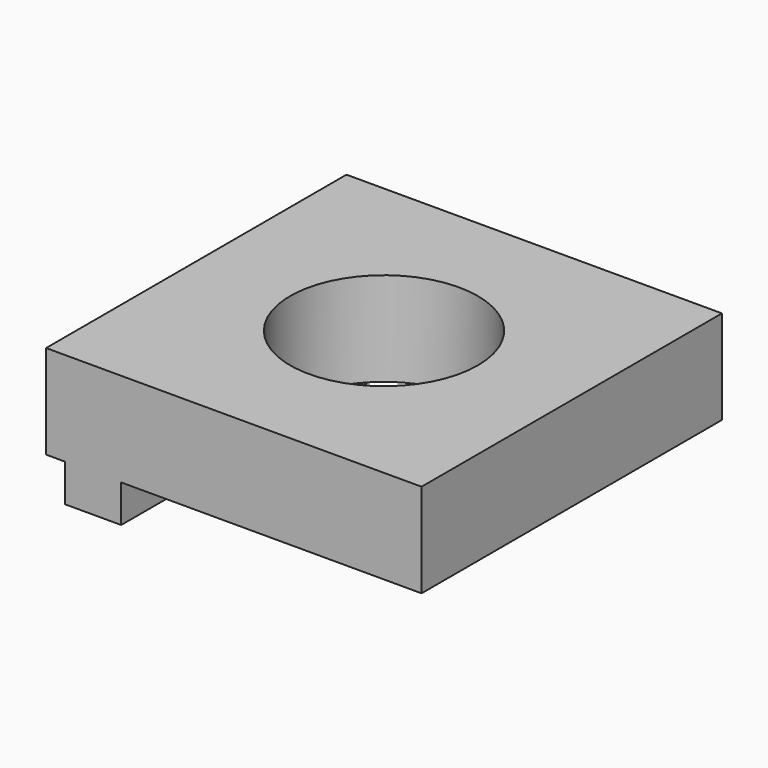
from build123d import *

# Parameters (mm, degrees)
F0_W     = 100
F0_H     = 100
F0_R     = 25
F2_DEPTH = 25
F1_W     = 15
F1_H     = 100
F3_DEPTH = 10


with BuildPart() as f2:
    # F0 (on Top) → F2 (new body)
    with BuildSketch(Plane.XY):
        Rectangle(F0_W, F0_H)
        Circle(F0_R, mode=Mode.SUBTRACT)
    extrude(amount=F2_DEPTH)

    # F1 (on face) → F3 (join)
    with BuildSketch(Plane.XY):
        with Locations((-37.5, 0)):
            Rectangle(F1_W, F1_H)
    extrude(amount=-F3_DEPTH)


solid = f2.part
